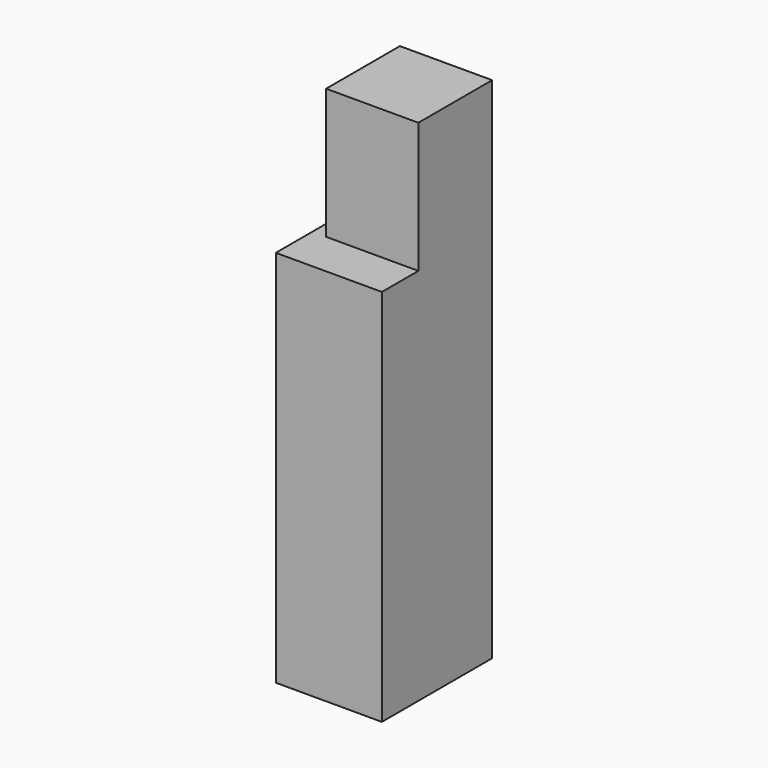
from build123d import *

# Parameters (mm, degrees)
F0_W     = 100
F0_H     = 130
F1_DEPTH = 480
F2_W     = 13
F2_H     = 87
F2_H_2   = 43
F2_W_2   = 87
F3_DEPTH = 123


with BuildPart() as f1:
    # F0 (on Top) → F1 (new body)
    with BuildSketch(Plane.XY):
        Rectangle(F0_W, F0_H)
    extrude(amount=F1_DEPTH)

    # F2 (on face) → F3 (cut)
    with BuildSketch(Plane.XY.offset(480)):
        with Locations((-43.5, 21.5)):
            Rectangle(F2_W, F2_H)
        with Locations((-43.5, -43.5)):
            Rectangle(F2_W, F2_H_2)
        with Locations((6.5, -43.5)):
            Rectangle(F2_W_2, F2_H_2)
    extrude(amount=-F3_DEPTH, mode=Mode.SUBTRACT)


solid = f1.part
